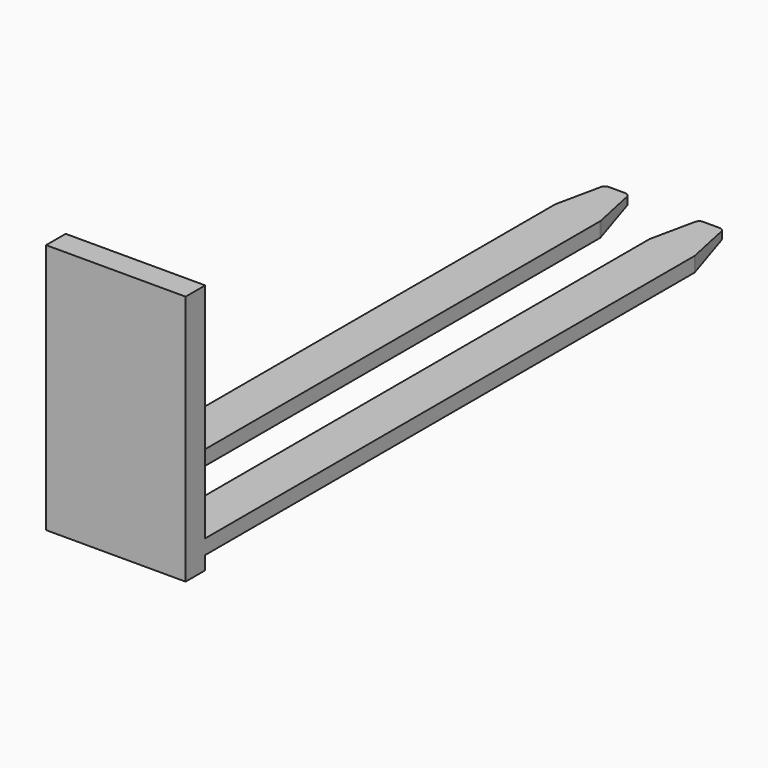
from build123d import *

# Parameters (mm, degrees)
F1_START      = 30
F1_DEPTH      = 60
F2_DEPTH      = 1000
F2_DEPTH_BACK = 25
F4_START      = 141
F4_DEPTH      = 92
F5_START      = -142
F5_DEPTH      = 105
F7_DEPTH      = 285.001
F7_DEPTH_BACK = 285.001


with BuildPart() as f1:
    # F0 (on Top) → F1 (new body)
    with BuildSketch(Plane.XY.offset(F1_START)):
        with BuildLine():
            Line((-192.5, 0), (-100, 0))
            Line((-100, 0), (-100, 2497.8984624443))
            ThreePointArc((-100, 2497.8984624443), (-100.1095055319, 2499.9884935006), (-100.4368229816, 2502.0556375607))
            Line((-100.4368229816, 2502.0556375607), (-139.1333997122, 2684.1571751164))
            ThreePointArc((-139.1333997122, 2684.1571751164), (-146.1097483439, 2695.5425786523), (-158.6965767306, 2700))
            Line((-158.6965767306, 2700), (-192.5, 2700))
            Line((-192.5, 2700), (-226.3034232694, 2700))
            ThreePointArc((-226.3034232694, 2700), (-238.8902516561, 2695.5425786523), (-245.8666002878, 2684.1571751164))
            Line((-245.8666002878, 2684.1571751164), (-284.5631770184, 2502.0556375607))
            ThreePointArc((-284.5631770184, 2502.0556375607), (-284.8904944681, 2499.9884935006), (-285, 2497.8984624443))
            Line((-285, 2497.8984624443), (-285, 0))
            Line((-285, 0), (-192.5, 0))
        make_face()
        Polygon((100, 0), (-100, 0), (-192.5, 0), (-285, 0), (-285, -100), (285, -100), (285, 0), (192.5, 0), align=None)
        with BuildLine():
            Line((100, 2497.8984624443), (100, 0))
            Line((100, 0), (192.5, 0))
            Line((192.5, 0), (285, 0))
            Line((285, 0), (285, 2497.8984624443))
            ThreePointArc((285, 2497.8984624443), (284.8904944681, 2499.9884935006), (284.5631770184, 2502.0556375607))
            Line((284.5631770184, 2502.0556375607), (245.8666002878, 2684.1571751164))
            ThreePointArc((245.8666002878, 2684.1571751164), (238.8902516561, 2695.5425786523), (226.3034232694, 2700))
            Line((226.3034232694, 2700), (192.5, 2700))
            Line((192.5, 2700), (158.6965767306, 2700))
            ThreePointArc((158.6965767306, 2700), (146.1097483439, 2695.5425786523), (139.1333997122, 2684.1571751164))
            Line((139.1333997122, 2684.1571751164), (100.4368229816, 2502.0556375607))
            ThreePointArc((100.4368229816, 2502.0556375607), (100.1095055319, 2499.9884935006), (100, 2497.8984624443))
        make_face()
    extrude(amount=F1_DEPTH)

    # F0 (on Top) → F2 (join, two sides)
    with BuildSketch(Plane.XY) as f2_sk:
        Polygon((100, 0), (-100, 0), (-192.5, 0), (-285, 0), (-285, -100), (285, -100), (285, 0), (192.5, 0), align=None)
    extrude(amount=F2_DEPTH)
    extrude(f2_sk.sketch, amount=-F2_DEPTH_BACK)

    # F3 (on Right) → F4 (join)
    with BuildSketch(Plane.YZ.offset(F4_START)):
        with BuildLine():
            Line((1736.2900083932, 30), (1658.8303414691, 30))
            ThreePointArc((1658.8303414691, 30), (1697.5601749311, 0), (1736.2900083932, 30))
        make_face()
        with BuildLine():
            Line((1636.2900083932, 30), (1558.8303414691, 30))
            ThreePointArc((1558.8303414691, 30), (1597.5601749311, 0), (1636.2900083932, 30))
        make_face()
    extrude(amount=F4_DEPTH)

    # F3 (on Right) → F5 (join)
    with BuildSketch(Plane.YZ.offset(F5_START)):
        with BuildLine():
            Line((1636.2900083932, 30), (1558.8303414691, 30))
            ThreePointArc((1558.8303414691, 30), (1597.5601749311, 0), (1636.2900083932, 30))
        make_face()
        with BuildLine():
            Line((1736.2900083932, 30), (1658.8303414691, 30))
            ThreePointArc((1658.8303414691, 30), (1697.5601749311, 0), (1736.2900083932, 30))
        make_face()
    extrude(amount=-F5_DEPTH)

    # F6 (on Right) → F7 (cut, two sides)
    with BuildSketch(Plane.YZ) as f7_sk:
        Polygon((2700, 30), (2700, 60), (2497.8984624443, 30), align=None)
    extrude(amount=-F7_DEPTH, mode=Mode.SUBTRACT)
    extrude(f7_sk.sketch, amount=F7_DEPTH_BACK, mode=Mode.SUBTRACT)


solid = f1.part
